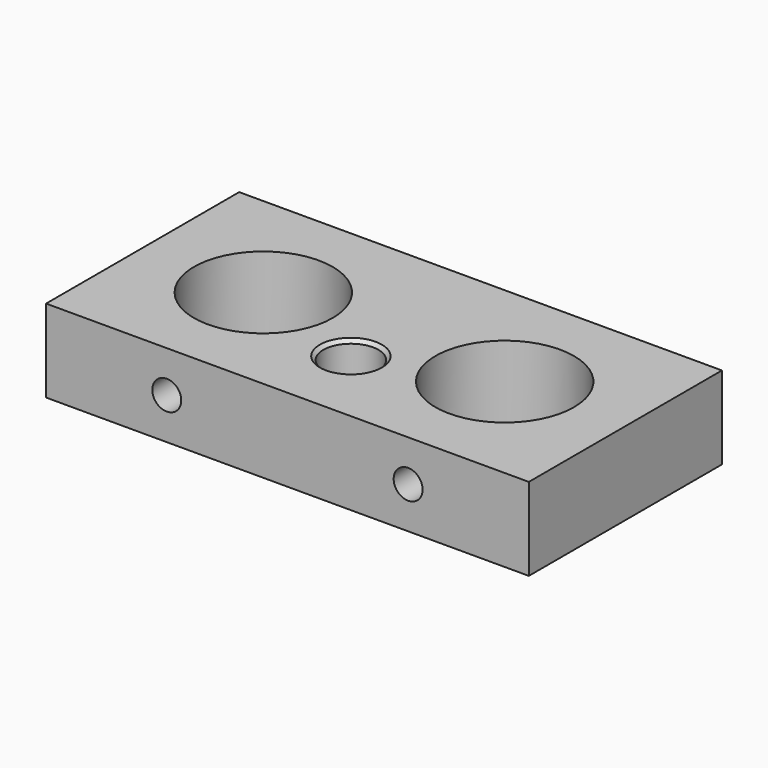
from build123d import *

# Parameters (mm, degrees)
F0_W     = 70
F0_H     = 35
F0_R     = 4
F0_R_2   = 10.05
F1_DEPTH = 12
F2_R     = 2.1
F3_DEPTH = 15
F4_R     = 2.1
F5_DEPTH = 7.6728517519
F6_SIZE  = 0.5


with BuildPart() as f1:
    # F0 (on Top) → F1 (new body)
    with BuildSketch(Plane.XY):
        with Locations((35, 17.5)):
            Rectangle(F0_W, F0_H)
        with Locations((35, 11.5)):
            Circle(F0_R, mode=Mode.SUBTRACT)
        with Locations((17.5, 17.5)):
            Circle(F0_R_2, mode=Mode.SUBTRACT)
        with Locations((52.5, 17.5)):
            Circle(F0_R_2, mode=Mode.SUBTRACT)
    extrude(amount=F1_DEPTH)

    # F2 (on face) → F3 (cut)
    with BuildSketch(Plane(origin=(0, 35, 0), x_dir=(-1, 0, 0), z_dir=(0, 1, 0))):
        with Locations((-35, 6)):
            Circle(F2_R)
        with Locations((-65, 6)):
            Circle(F2_R)
        with Locations((-5, 6)):
            Circle(F2_R)
    extrude(amount=-F3_DEPTH, mode=Mode.SUBTRACT)

    # F4 (on face) → F5 (cut, through all)
    with BuildSketch(Plane.XZ):
        with Locations((17.5, 6)):
            Circle(F4_R)
        with Locations((52.5, 6)):
            Circle(F4_R)
    extrude(amount=-F5_DEPTH, mode=Mode.SUBTRACT)

    # F6
    f6_edges = [f1.edges().sort_by_distance(p)[0] for p in [
        (31, 11.5, 12),
        (31, 11.5, 0),
    ]]
    chamfer(f6_edges, length=F6_SIZE)


solid = f1.part
